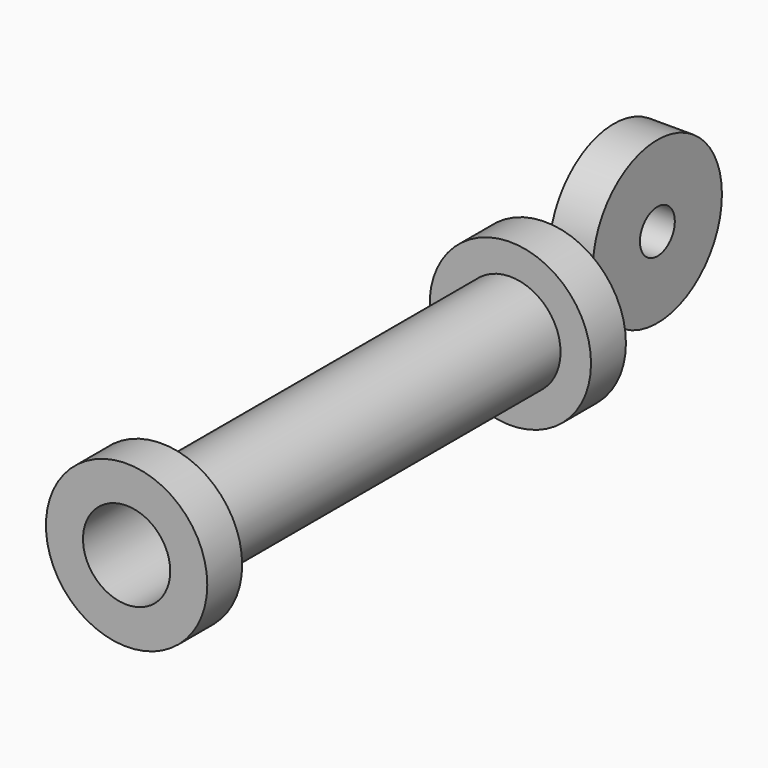
from build123d import *

# Parameters (mm, degrees)
F0_R     = 18.5
F0_R_2   = 10
F1_DEPTH = 10
F2_R     = 11.5074062797
F3_DEPTH = 100
F4_DEPTH = 120
F5_R     = 18.5
F5_R_2   = 11.5074062797
F5_R_3   = 10
F6_DEPTH = 10
F7_R     = 18.5
F7_R_2   = 5
F8_DEPTH = 10


with BuildPart() as f1:
    # F0 (on Front) → F1 (new body)
    with BuildSketch(Plane.XZ):
        with Locations((19.4878280163, 13.6237423867)):
            Circle(F0_R)
        with Locations((19.4878280163, 13.6237423867)):
            Circle(F0_R_2, mode=Mode.SUBTRACT)
        with Locations((19.4878280163, 13.6237423867)):
            Circle(F0_R_2)
    extrude(amount=F1_DEPTH)

    # F2 (on face) → F3 (join)
    with BuildSketch(Plane.XZ.offset(10)):
        with Locations((19.4878280163, 13.6237423867)):
            Circle(F2_R)
    extrude(amount=F3_DEPTH)

    # F0 (on Front) → F4 (cut)
    with BuildSketch(Plane.XZ):
        with Locations((19.4878280163, 13.6237423867)):
            Circle(F0_R_2)
    extrude(amount=F4_DEPTH, mode=Mode.SUBTRACT)

    # F5 (on face) → F6 (join)
    with BuildSketch(Plane.XZ.offset(110)):
        with Locations((19.4878280163, 13.6237423867)):
            Circle(F5_R)
        with Locations((19.4878280163, 13.6237423867)):
            Circle(F5_R_2, mode=Mode.SUBTRACT)
        with Locations((19.4878280163, 13.6237423867)):
            Circle(F5_R_2)
        with Locations((19.4878280163, 13.6237423867)):
            Circle(F5_R_3, mode=Mode.SUBTRACT)
    extrude(amount=F6_DEPTH)


with BuildPart() as f8:
    # F7 (on Right) → F8 (new body)
    with BuildSketch(Plane.YZ):
        with Locations((44.0003760159, 9.2073623091)):
            Circle(F7_R)
        with Locations((44.0003760159, 9.2073623091)):
            Circle(F7_R_2, mode=Mode.SUBTRACT)
    extrude(amount=F8_DEPTH)


solid = Compound([f1.part, f8.part])
